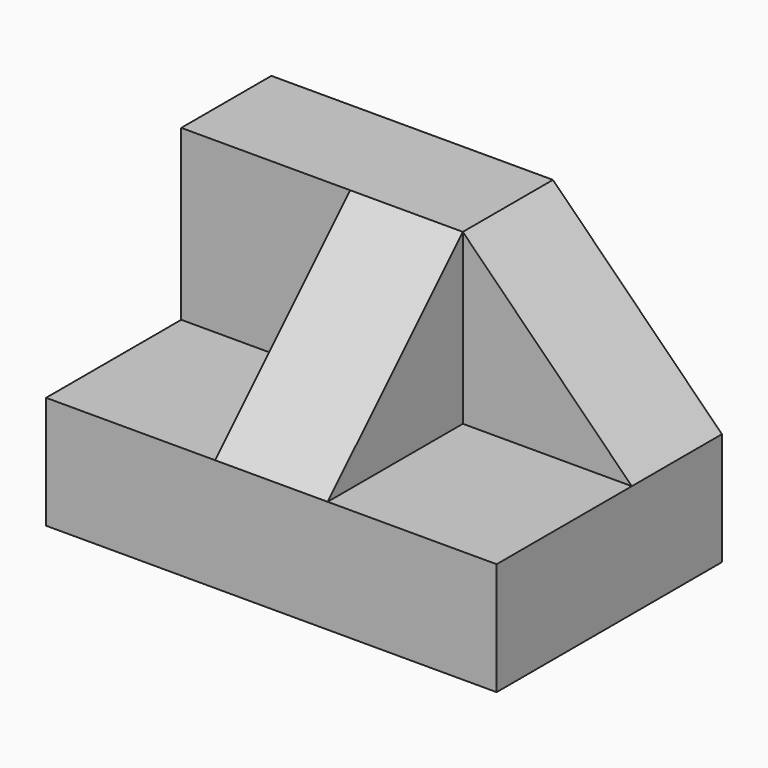
from build123d import *

# Parameters (mm, degrees)
F0_W     = 50.8
F0_H     = 31.75
F1_DEPTH = 31.75
F2_W     = 19.05
F2_H     = 19.05
F3_DEPTH = 19.05
F4_DEPTH = 19.05
F6_DEPTH = 12.7
F8_DEPTH = 12.7


with BuildPart() as f1:
    # F0 (on Front) → F1 (new body)
    with BuildSketch(Plane.XZ):
        with Locations((25.4, 15.875)):
            Rectangle(F0_W, F0_H)
    extrude(amount=F1_DEPTH)

    # F2 (on face) → F3 (cut)
    with BuildSketch(Plane.XZ.offset(31.75)):
        with Locations((41.275, 22.225)):
            Rectangle(F2_W, F2_H)
    extrude(amount=-F3_DEPTH, mode=Mode.SUBTRACT)

    # F2 (on face) → F4 (cut)
    with BuildSketch(Plane.XZ.offset(31.75)):
        with Locations((9.525, 22.225)):
            Rectangle(F2_W, F2_H)
    extrude(amount=-F4_DEPTH, mode=Mode.SUBTRACT)

    # F5 (on face) → F6 (cut)
    with BuildSketch(Plane.YZ.offset(31.75)):
        Polygon((-31.75, 12.7), (-12.7, 31.75), (-31.75, 31.75), align=None)
    extrude(amount=-F6_DEPTH, mode=Mode.SUBTRACT)

    # F7 (on face) → F8 (cut)
    with BuildSketch(Plane.XZ.offset(12.7)):
        Polygon((50.8, 31.75), (31.75, 31.75), (50.8, 12.7), align=None)
    extrude(amount=-F8_DEPTH, mode=Mode.SUBTRACT)


solid = f1.part
